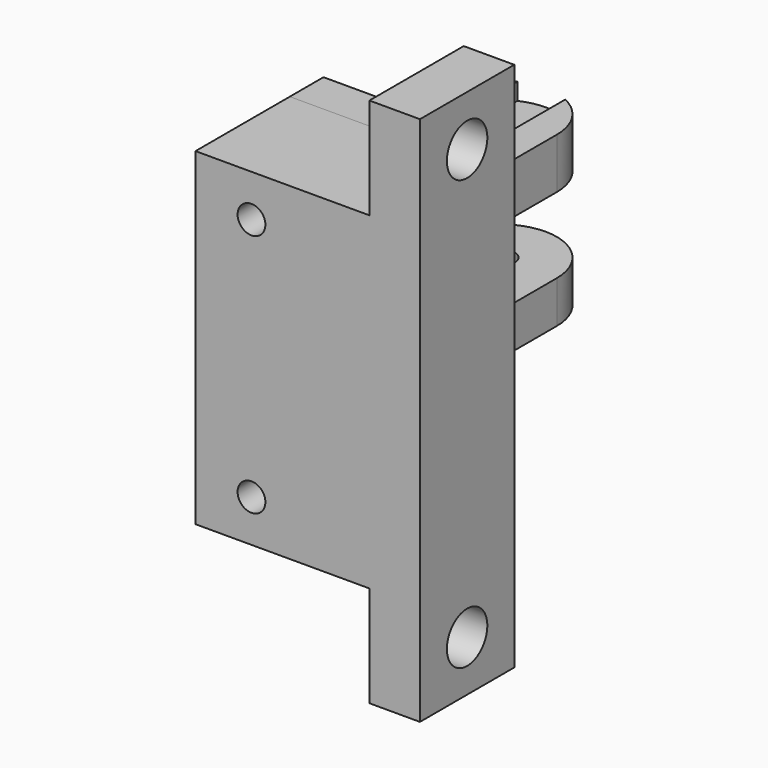
from build123d import *

# Parameters (mm, degrees)
F0_W      = 13.3
F0_H      = 5
F0_R      = 1.65
F1_DEPTH  = 5
F2_DEPTH  = 15
F3_DEPTH  = 4.5
F6_R      = 1.65
F7_DEPTH  = 2.5
F8_DEPTH  = 25
F10_DEPTH = 1
F11_DEPTH = 1
F12_W     = 26.65
F12_H     = 39
F13_DEPTH = 14
F14_DEPTH = 25
F15_W     = 6
F15_H     = 14
F16_DEPTH = 12
F17_R     = 3
F18_DEPTH = 25
F19_W     = 6
F19_H     = 14
F20_DEPTH = 12
F21_R     = 3
F22_DEPTH = 25


with BuildPart() as f1:
    # F0 (on Top) → F1 (new body)
    with BuildSketch(Plane.XY):
        with Locations((0, -20.5)):
            Rectangle(F0_W, F0_H)
        with BuildLine():
            Line((6.65, -18), (6.65, 0))
            ThreePointArc((6.65, 0), (0, 6.65), (-6.65, 0))
            Line((-6.65, 0), (-6.65, -18))
            Line((-6.65, -18), (6.65, -18))
        make_face()
        Circle(F0_R, mode=Mode.SUBTRACT)
    extrude(amount=F1_DEPTH)

    # F0 (on Top) → F2 (join)
    with BuildSketch(Plane.XY):
        with Locations((0, -20.5)):
            Rectangle(F0_W, F0_H)
    extrude(amount=F2_DEPTH)

    # F0 (on Top) → F3 (join)
    with BuildSketch(Plane.XY):
        with Locations((0, -20.5)):
            Rectangle(F0_W, F0_H)
    extrude(amount=-F3_DEPTH)

    # F5: F1 across plane


with BuildPart() as f1_1:
    add(f1.part)
    add(f1.part.mirror(Plane(origin=(0, -20.5, -4.5), x_dir=(1, 0, 0), z_dir=(0, 0, -1))))

    # F6 (on face) → F7 (cut)
    with BuildSketch(Plane(origin=(0, -18, 0), x_dir=(-1, 0, 0), z_dir=(0, 1, 0))):
        Polygon((2.85, -20.6454482672), (2.85, -17.3545517328), (0, -15.7091034656), (-2.85, -17.3545517328), (-2.85, -20.6454482672), (0, -22.2908965344), align=None)
        with Locations((0, -19)):
            Circle(F6_R, mode=Mode.SUBTRACT)
        Polygon((-2.85, 8.3545517328), (0, 6.7091034656), (2.85, 8.3545517328), (2.85, 11.6454482672), (0, 13.2908965344), (-2.85, 11.6454482672), align=None)
        with Locations((0, 10)):
            Circle(F6_R, mode=Mode.SUBTRACT)
    extrude(amount=-F7_DEPTH, mode=Mode.SUBTRACT)

    # F8 (cut): faces of the model
    f8_faces = [f1_1.faces().sort_by_distance(p)[0] for p in [
        (0, -18, -19),
        (0, -18, 10),
    ]]
    extrude(f8_faces, amount=-F8_DEPTH, mode=Mode.SUBTRACT)

    # F9 (on face) → F10 (cut)
    with BuildSketch(Plane.XY.offset(5)):
        Polygon((2.85, -1.6454482672), (2.85, 1.6454482672), (0, 3.2908965344), (-2.85, 1.6454482672), (-2.85, -1.6454482672), (0, -3.2908965344), align=None)
        with BuildLine():
            Line((0, 3.2908965344), (2.85, 1.6454482672))
            Line((2.85, 1.6454482672), (2.85, 6.0083275543))
            ThreePointArc((2.85, 6.0083275543), (0, 6.65), (-2.85, 6.0083275543))
            Line((-2.85, 6.0083275543), (-2.85, 1.6454482672))
            Line((-2.85, 1.6454482672), (0, 3.2908965344))
        make_face()
    extrude(amount=-F10_DEPTH, mode=Mode.SUBTRACT)

    # F11 (add): a face of the model
    f11_faces = [f1_1.faces().sort_by_distance(p)[0] for p in [
        (0, -7.9774302241, 5),
    ]]
    extrude(f11_faces, amount=F11_DEPTH)


with BuildPart() as f13:
    # F12 (on face) → F13 (new body)
    with BuildSketch(Plane.XZ.offset(23)):
        with Locations((6.675, -4.5)):
            Rectangle(F12_W, F12_H)
    extrude(amount=F13_DEPTH)

    # F6 (on face) → F14 (cut)
    with BuildSketch(Plane(origin=(0, -18, 0), x_dir=(-1, 0, 0), z_dir=(0, 1, 0))):
        with Locations((0, -19)):
            Circle(F6_R)
        with Locations((0, 10)):
            Circle(F6_R)
    extrude(amount=-F14_DEPTH, mode=Mode.SUBTRACT)

    # F15 (on face) → F16 (join)
    with BuildSketch(Plane.XY.offset(15)):
        with Locations((17, -30)):
            Rectangle(F15_W, F15_H)
    extrude(amount=F16_DEPTH)

    # F17 (on face) → F18 (cut)
    with BuildSketch(Plane(origin=(14, 0, 0), x_dir=(0, -1, 0), z_dir=(-1, 0, 0))):
        with Locations((30, 21)):
            Circle(F17_R)
    extrude(amount=-F18_DEPTH, mode=Mode.SUBTRACT)

    # F19 (on face) → F20 (join)
    with BuildSketch(Plane(origin=(0, 0, -24), x_dir=(1, 0, 0), z_dir=(0, 0, -1))):
        with Locations((17, 30)):
            Rectangle(F19_W, F19_H)
    extrude(amount=F20_DEPTH)

    # F21 (on face) → F22 (cut)
    with BuildSketch(Plane(origin=(14, 0, 0), x_dir=(0, -1, 0), z_dir=(-1, 0, 0))):
        with Locations((30, -30)):
            Circle(F21_R)
    extrude(amount=-F22_DEPTH, mode=Mode.SUBTRACT)


solid = Compound([f1_1.part, f13.part])
